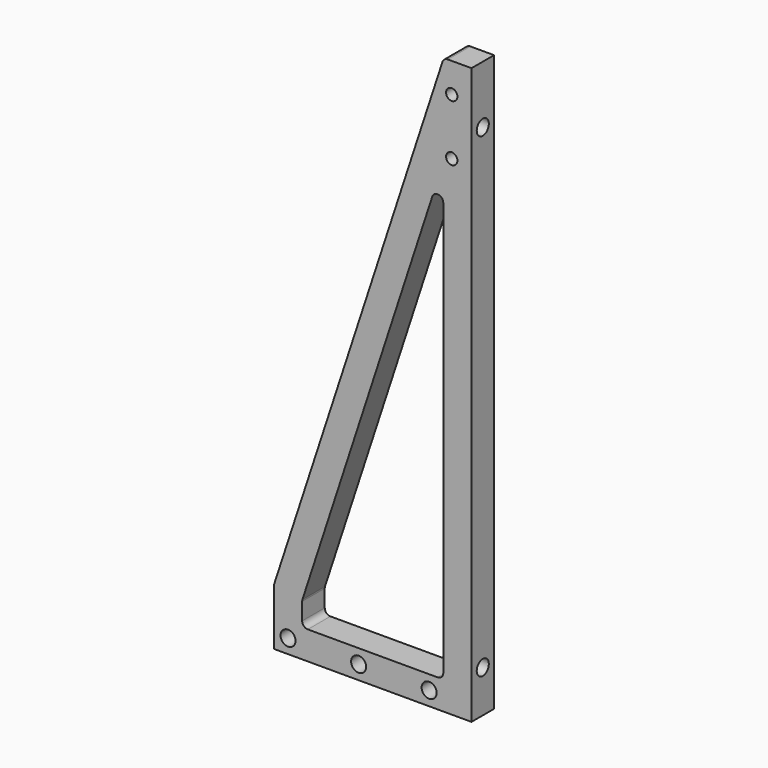
from build123d import *

# Parameters (mm, degrees)
F1_DEPTH = 12.7
F2_R     = 2.54
F4_D     = 6.8
F4_DEPTH = 16.45
F4_TIP   = 2.0429261047
F6_D     = 5.1054
F6_DEPTH = 12.7
F6_TIP   = 1.5338169022
F8_D     = 6.7564


with BuildPart() as f1:
    # F0 (on Front) → F1 (new body)
    with BuildSketch(Plane.XZ):
        Polygon((0, 25.4), (0, 0), (88.9, 0), (88.9, 12.7), (88.9, 226.6), (88.9, 239.3), (88.9, 252), (74.1228589826, 252), align=None)
        Polygon((76.2, 217.5006349499), (76.2, 12.7), (12.7, 12.7), (12.7, 23.3756349499), align=None, mode=Mode.SUBTRACT)
        Polygon((76.4077141017, 258.985), (74.1228589826, 252), (88.9, 252), (88.9, 258.985), align=None)
    extrude(amount=F1_DEPTH)

    # F2
    f2_edges = [f1.edges().sort_by_distance(p)[0] for p in [
        (0, -6.35, 25.4),
        (76.2, -6.35, 12.7),
        (12.7, -6.35, 12.7),
        (12.7, -6.35, 23.375635),
        (76.2, -6.35, 217.500635),
        (76.407714, -6.35, 258.985),
    ]]
    fillet(f2_edges, radius=F2_R)

    # F4
    with Locations(Plane.YZ.offset(88.9)):
        with Locations((-6.35, 233), (-6.35, 19)):
            Hole(F4_D / 2, depth=F4_DEPTH)
            with Locations((0, 0, -(F4_DEPTH + F4_TIP / 2))):  # 118° drill point
                Cone(0, F4_D / 2, F4_TIP, mode=Mode.SUBTRACT)

    # F6
    with Locations(Plane(origin=(0, 0, 0), x_dir=(-1, 0, 0), z_dir=(0, 1, 0))):
        with Locations((-80.01, 245.65), (-80.01, 220.25)):
            Hole(F6_D / 2, depth=F6_DEPTH)
            with Locations((0, 0, -(F6_DEPTH + F6_TIP / 2))):  # 118° drill point
                Cone(0, F6_D / 2, F6_TIP, mode=Mode.SUBTRACT)

    # F8 (through all)
    with Locations(Plane.XZ.offset(12.7)):
        with Locations((6.35, 6.35), (38.1, 6.35), (69.85, 6.35)):
            Hole(F8_D / 2)


solid = f1.part
